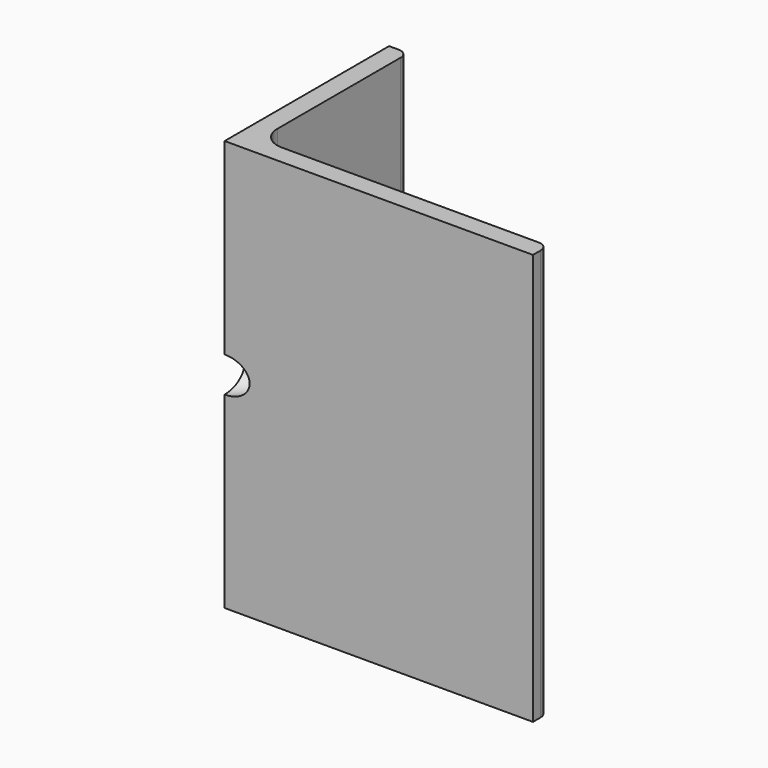
from build123d import *

# Parameters (mm, degrees)
F1_DEPTH = 101.6
F3_R     = 8.73125
F4_DEPTH = 25.4


with BuildPart() as f1:
    # F0 (on Top) → F1 (new body, symmetric)
    with BuildSketch(Plane.XY):
        with BuildLine():
            Line((0, 101.6), (0, 0))
            Line((0, 0), (152.4, 0))
            Line((152.4, 0), (152.4, 4.7625))
            ThreePointArc((152.4, 4.7625), (151.005096, 8.130096), (147.6375, 9.525))
            Line((147.6375, 9.525), (20.6375, 9.525))
            ThreePointArc((20.6375, 9.525), (12.779776, 12.779776), (9.525, 20.6375))
            Line((9.525, 20.6375), (9.525, 96.8375))
            ThreePointArc((9.525, 96.8375), (8.130096, 100.205096), (4.7625, 101.6))
            Line((4.7625, 101.6), (0, 101.6))
        make_face()
    extrude(amount=F1_DEPTH, both=True)

    # F3 (on face) → F4 (cut)
    with BuildSketch(Plane(origin=(0, 0, 0), x_dir=(-0.707107, 0.707107, 0), z_dir=(0.707107, 0.707107, 0))):
        Circle(F3_R)
    extrude(amount=F4_DEPTH, mode=Mode.SUBTRACT)


solid = f1.part
